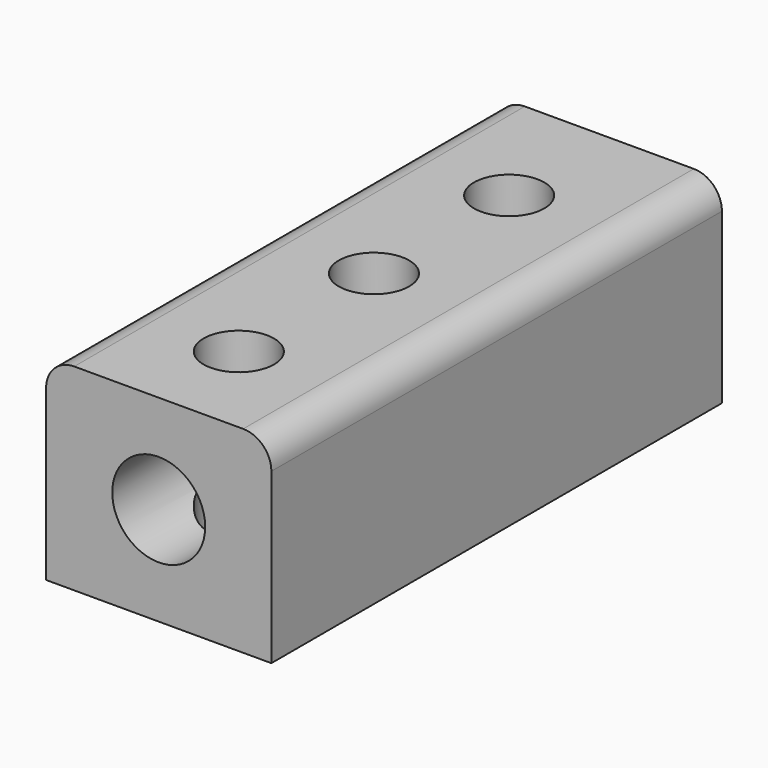
from build123d import *

# Parameters (mm, degrees)
F0_W     = 8
F0_H     = 7
F0_R     = 1.65
F1_DEPTH = 20
F2_R     = 1.25
F3_DEPTH = 7.001
F4_R     = 1


with BuildPart() as f1:
    # F0 (on Front) → F1 (new body)
    with BuildSketch(Plane.XZ):
        Rectangle(F0_W, F0_H)
        Circle(F0_R, mode=Mode.SUBTRACT)
    extrude(amount=-F1_DEPTH)

    # F2 (on face) → F3 (cut, through all)
    with BuildSketch(Plane.XY.offset(3.5)):
        with Locations((0, 15.555)):
            Circle(F2_R)
        with Locations((0, 9.555)):
            Circle(F2_R)
        with Locations((0, 3.555)):
            Circle(F2_R)
    extrude(amount=-F3_DEPTH, mode=Mode.SUBTRACT)

    # F4
    f4_edges = [f1.edges().sort_by_distance(p)[0] for p in [
        (4, 10, 3.5),
        (-4, 10, 3.5),
    ]]
    fillet(f4_edges, radius=F4_R)


solid = f1.part
